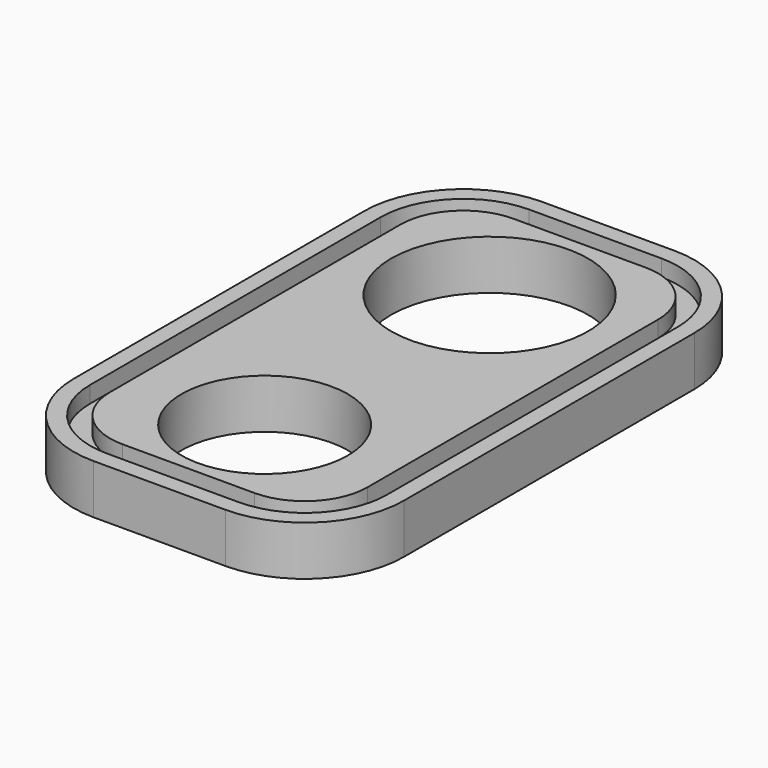
from build123d import *

# Parameters (mm, degrees)
F0_R     = 25.2
F0_W     = 100
F0_H     = 15
F1_DEPTH = 15
F2_R     = 30
F5_DEPTH = 5


with BuildPart() as f1:
    # F0 (on Top) → F1 (new body)
    with BuildSketch(Plane.XY):
        with BuildLine():
            Line((-50, -85), (50, -85))
            Line((50, -85), (50, 40))
            Line((50, 40), (29.85, 40))
            ThreePointArc((29.85, 40), (0, 10.15), (-29.85, 40))
            Line((-29.85, 40), (-50, 40))
            Line((-50, 40), (-50, -85))
        make_face()
        with Locations((0, -45.2)):
            Circle(F0_R, mode=Mode.SUBTRACT)
        with BuildLine():
            Line((29.85, 40), (50, 40))
            Line((50, 40), (50, 70))
            Line((50, 70), (-50, 70))
            Line((-50, 70), (-50, 40))
            Line((-50, 40), (-29.85, 40))
            ThreePointArc((-29.85, 40), (0, 69.85), (29.85, 40))
        make_face()
        with Locations((0, 77.5)):
            Rectangle(F0_W, F0_H)
    extrude(amount=F1_DEPTH)

    # F2
    f2_edges = [f1.edges().sort_by_distance(p)[0] for p in [
        (-50, 85, 7.5),
        (50, 85, 7.5),
        (-50, -85, 7.5),
        (50, -85, 7.5),
    ]]
    fillet(f2_edges, radius=F2_R)

    # F4 (on face) → F5 (cut)
    with BuildSketch(Plane.XY.offset(15)):
        with BuildLine():
            ThreePointArc((45, 55), (37.67767, 72.67767), (20, 80))
            Line((20, 80), (-20, 80))
            ThreePointArc((-20, 80), (-37.67767, 72.67767), (-45, 55))
            Line((-45, 55), (-45, -55))
            ThreePointArc((-45, -55), (-37.67767, -72.67767), (-20, -80))
            Line((-20, -80), (20, -80))
            ThreePointArc((20, -80), (37.67767, -72.67767), (45, -55))
            Line((45, -55), (45, 55))
        make_face()
        with BuildLine():
            Line((-20, 74), (20, 74))
            ThreePointArc((20, 74), (33.435029, 68.435029), (39, 55))
            Line((39, 55), (39, -55))
            ThreePointArc((39, -55), (33.435029, -68.435029), (20, -74))
            Line((20, -74), (-20, -74))
            ThreePointArc((-20, -74), (-33.435029, -68.435029), (-39, -55))
            Line((-39, -55), (-39, 55))
            ThreePointArc((-39, 55), (-33.435029, 68.435029), (-20, 74))
        make_face(mode=Mode.SUBTRACT)
    extrude(amount=-F5_DEPTH, mode=Mode.SUBTRACT)


solid = f1.part
